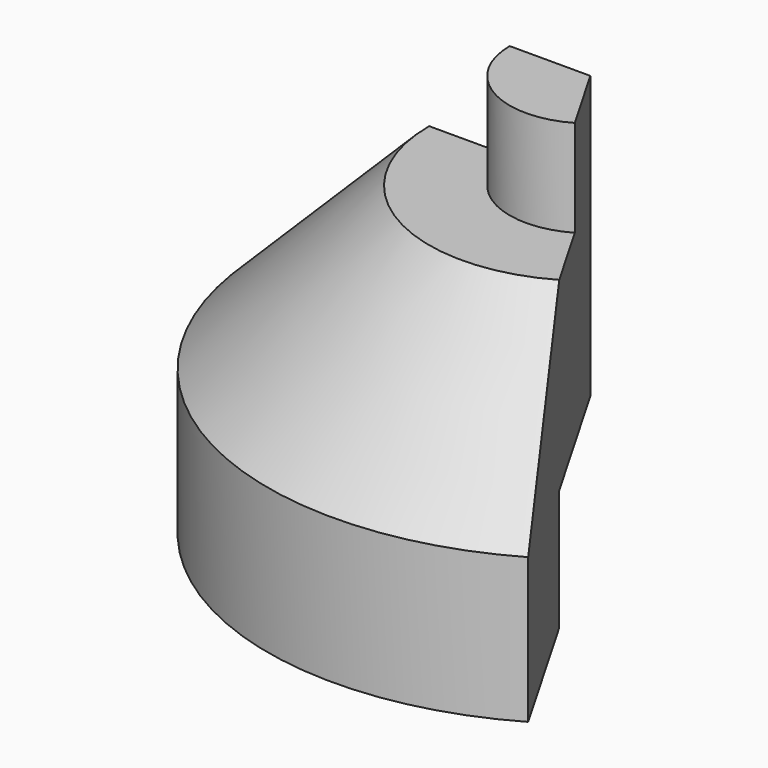
from build123d import *

# Parameters (mm, degrees)
F1_ANGLE = 120


with BuildPart() as f1:
    # F0 (on Front) → F1 (revolve)
    with BuildSketch(Plane.XZ):
        Polygon((-20, 15), (0, 15), (0, 50), (-10, 50), (-10, 38), (-20, 38), (-40, 18), (-40, 0), (-20, 0), align=None)
    revolve(axis=Axis((0, 0, 25), (0, 0, 1)), revolution_arc=F1_ANGLE)


solid = f1.part
